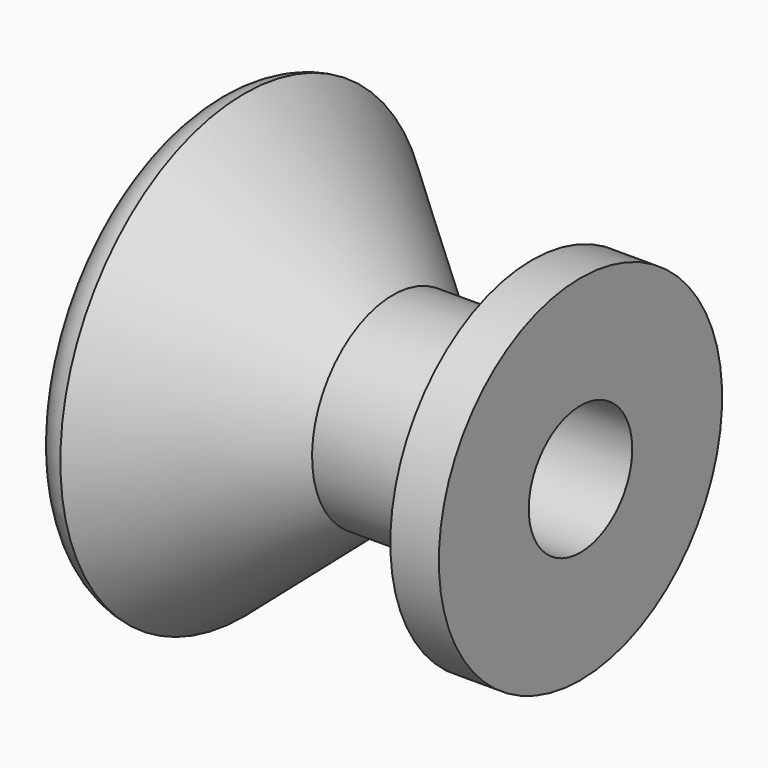
from build123d import *


with BuildPart() as f1:
    # F0 (on Front) → F1 (revolve)
    with BuildSketch(Plane.XZ):
        with BuildLine():
            Line((-131.713825, 19.739976), (-131.713825, 23.270576))
            Line((-131.713825, 23.270576), (-138.847012, 23.270576))
            Line((-138.847012, 23.270576), (-143.371043, 19.337896))
            ThreePointArc((-143.371043, 19.337896), (-143.059541, 18.498054), (-142.271226, 18.072701))
            Line((-142.271226, 18.072701), (-137.606625, 22.127576))
            Line((-137.606625, 22.127576), (-133.237825, 22.127576))
            Line((-133.237825, 22.127576), (-133.237825, 19.739976))
            Line((-133.237825, 19.739976), (-131.713825, 19.739976))
        make_face()
    revolve(axis=Axis((-144.413825, 0, 25.302576), (-1, 0, 0)))


solid = f1.part
